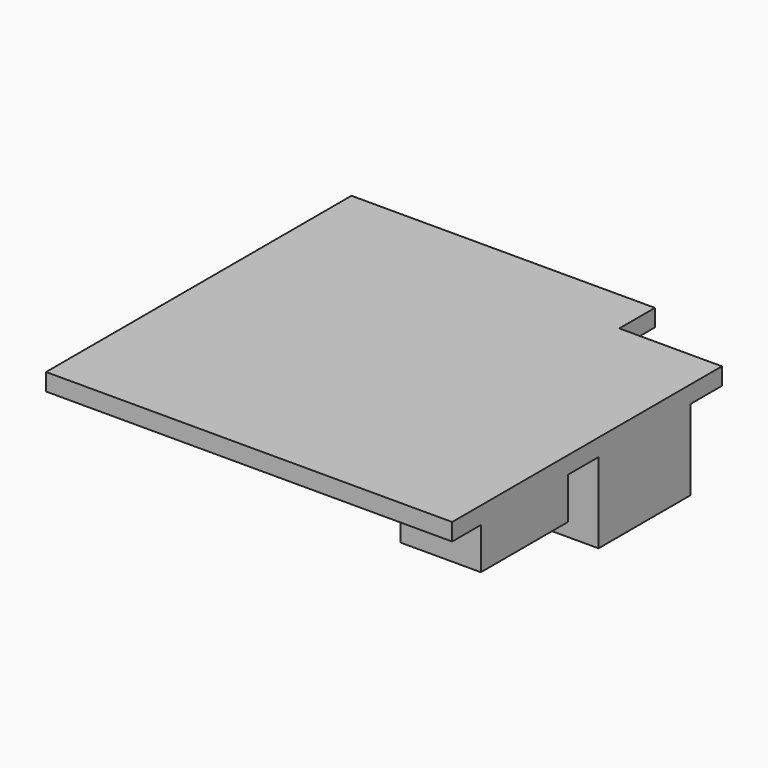
from build123d import *

# Parameters (mm, degrees)
PAD004_DEPTH = 1.2
SKETCH006_W  = 7.5
SKETCH006_H  = 8
PAD005_DEPTH = 5.6
SKETCH007_W  = 5.6
SKETCH007_H  = 7.6
PAD006_DEPTH = 2.9


with BuildPart() as part:
    # Sketch005 → Pad004 (new body)
    with BuildSketch(Plane.XY):
        Polygon((7, 11.75), (14.15, 11.75), (14.15, -11.75), (-14.15, -11.75), (-14.15, 14.85), (7, 14.85), align=None)
    extrude(amount=PAD004_DEPTH)

    # Sketch006 (on Face7 of Pad004) → Pad005 (join)
    with BuildSketch(Plane(origin=(0, 0, 0), x_dir=(1, 0, 0), z_dir=(0, 0, -1))):
        with Locations((10.4, -5)):
            Rectangle(SKETCH006_W, SKETCH006_H)
    extrude(amount=PAD005_DEPTH)

    # Sketch007 (on Face4 of Pad005) → Pad006 (join)
    with BuildSketch(Plane(origin=(0, 0, 0), x_dir=(1, 0, 0), z_dir=(0, 0, -1))):
        with Locations((11.35, 5.45)):
            Rectangle(SKETCH007_W, SKETCH007_H)
    extrude(amount=PAD006_DEPTH)


solid = part.part
